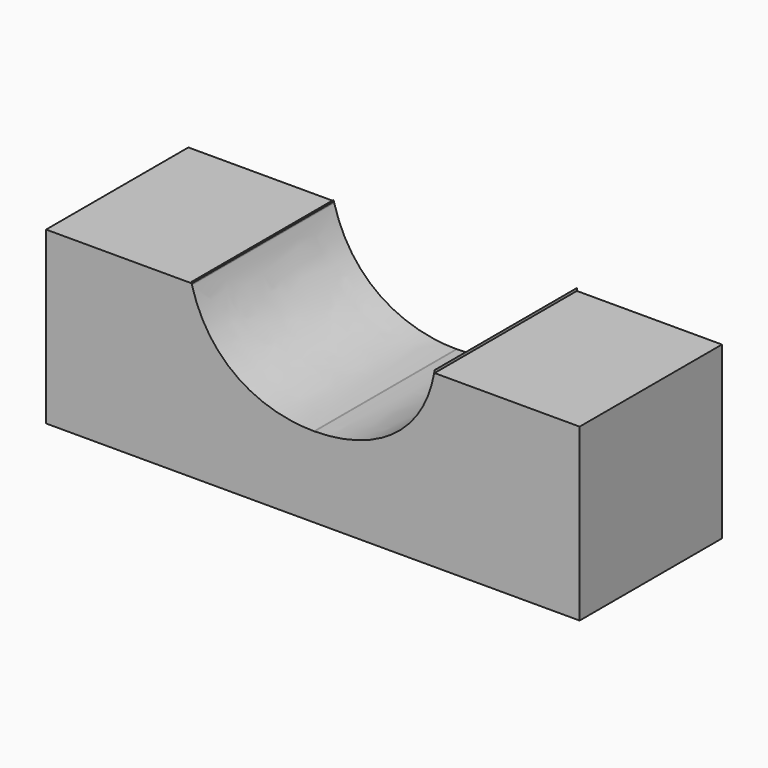
from build123d import *

# Parameters (mm, degrees)
F1_DEPTH = 50
F3_DEPTH = 50


with BuildPart() as f1:
    # F0 (on Front) → F1 (new body)
    with BuildSketch(Plane.XZ):
        Polygon((-34.2579181991, 25.4109162267), (-75.2579181991, 25.4109162267), (-75.2579181991, -22.5890837733), (74.7420818009, -22.5890837733), (74.7420818009, 25.4109162267), (33.7420818009, 25.4109162267), (33.7420818009, 0), (-34.2579181991, 0), align=None)
    extrude(amount=F1_DEPTH)

    # F2 (on Front) → F3 (join)
    with BuildSketch(Plane.XZ):
        with BuildLine():
            add(Edge.make_bspline(
                [(-34.439124167, 25.7045440376), (-29.8644360155, 7.841472514), (-15.2597080741, 0.0492694303), (0, 0)],
                knots=[0, 0, 0, 0, 0.5003378165, 0.5003378165, 0.5003378165, 0.5003378165], degree=3))
            Line((-34.439124167, 25.7045440376), (-34.439124167, 0))
            Line((-34.439124167, 0), (0, 0))
        make_face()
        with BuildLine():
            add(Edge.make_bspline(
                [(0.2911255263, 0), (15.4409229129, 0.0489315649), (31.1494455799, 7.7415126091), (33.9633673429, 26.1402279139)],
                knots=[0.503518811, 0.503518811, 0.503518811, 0.503518811, 1, 1, 1, 1], degree=3))
            Line((0.2911255263, 0), (33.9633673429, 0))
            Line((33.9633673429, 0), (33.9633673429, 26.1402279139))
        make_face()
        with BuildLine():
            Line((0.2911255263, 0), (0, 0))
            add(Edge.make_bspline(
                [(0, 0), (0.0970165471, -0.0003132399), (0.1940595687, -0.0003135084), (0.2911255263, 0)],
                knots=[0.5003378165, 0.5003378165, 0.5003378165, 0.5003378165, 0.503518811, 0.503518811, 0.503518811, 0.503518811], degree=3))
        make_face()
    extrude(amount=F3_DEPTH)


solid = f1.part
